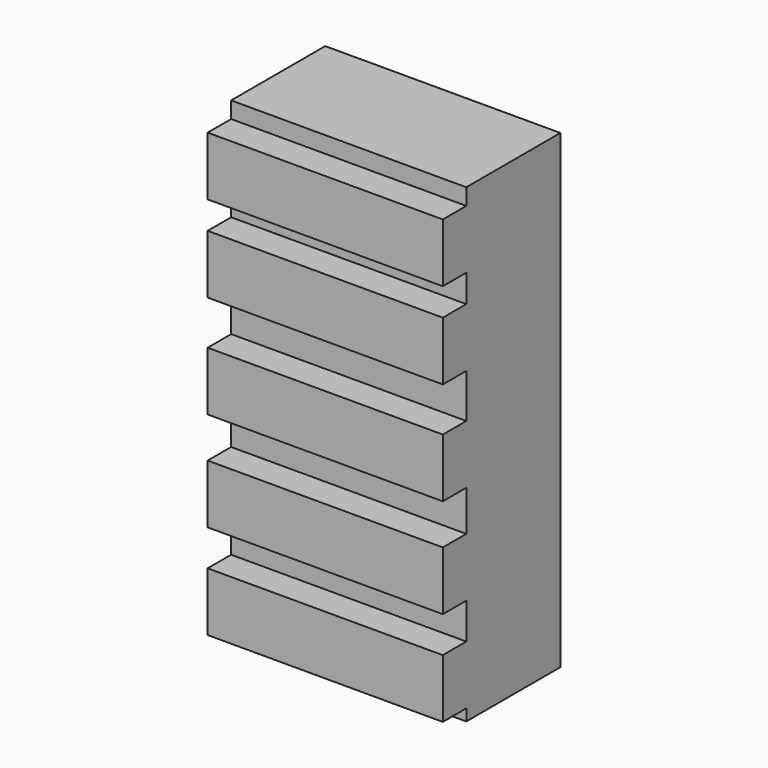
from build123d import *

# Parameters (mm, degrees)
F0_W     = 50.8
F0_H     = 101.6
F1_DEPTH = 25.4
F2_W     = 50.8
F2_H     = 12.7
F3_DEPTH = 6.35
F4_W     = 50.8
F4_H     = 12.7
F5_DEPTH = 6.35


with BuildPart() as f1:
    # F0 (on Front) → F1 (new body)
    with BuildSketch(Plane.XZ):
        Rectangle(F0_W, F0_H)
    extrude(amount=F1_DEPTH)

    # F2 (on face) → F3 (join)
    with BuildSketch(Plane.XZ.offset(25.4)):
        Rectangle(F2_W, F2_H)
    extrude(amount=F3_DEPTH)

    # F4 (on face) → F5 (join)
    with BuildSketch(Plane.XZ.offset(25.4)):
        with Locations((0, 22.225)):
            Rectangle(F4_W, F4_H)
        with Locations((0, 40.902834)):
            Rectangle(F4_W, F4_H)
        with Locations((0, -21.466311)):
            Rectangle(F4_W, F4_H)
        with Locations((0, -41.953252)):
            Rectangle(F4_W, F4_H)
    extrude(amount=F5_DEPTH)


solid = f1.part
